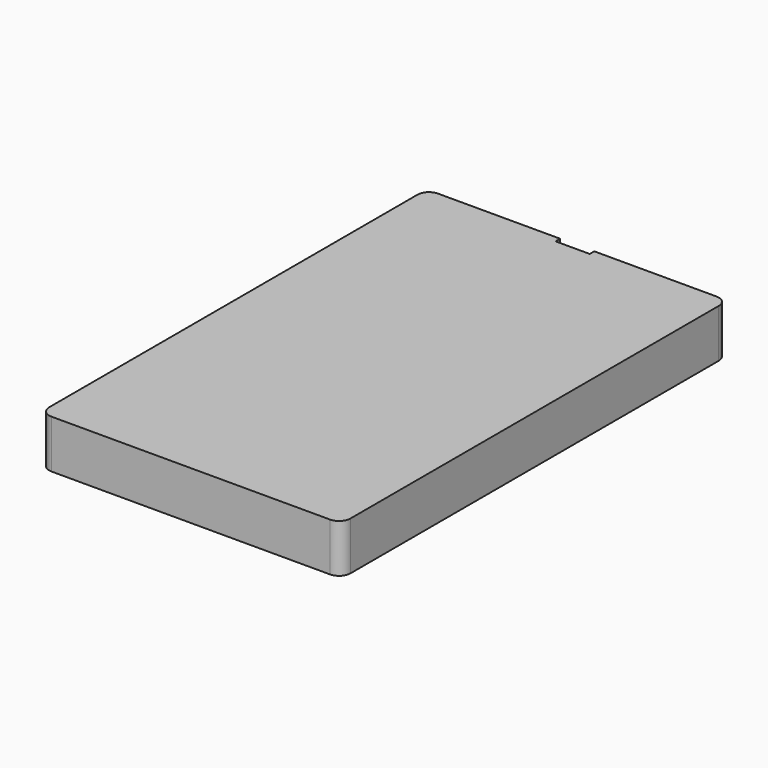
from build123d import *

# Parameters (mm, degrees)
F1_DEPTH = 4.25
F2_R     = 2


with BuildPart() as f1:
    # F0 (on Top) → F1 (new body, symmetric)
    with BuildSketch(Plane.XY):
        Polygon((-26.5, -42.5), (26.5, -42.5), (26.5, 42.5), (3, 42.5), (3, 41.5), (-3, 41.5), (-3, 42.5), (-26.5, 42.5), align=None)
    extrude(amount=F1_DEPTH, both=True)

    # F2
    f2_edges = [f1.edges().sort_by_distance(p)[0] for p in [
        (-26.5, -42.5, 0),
        (26.5, -42.5, 0),
        (26.5, 42.5, 0),
        (-26.5, 42.5, 0),
    ]]
    fillet(f2_edges, radius=F2_R)


solid = f1.part
